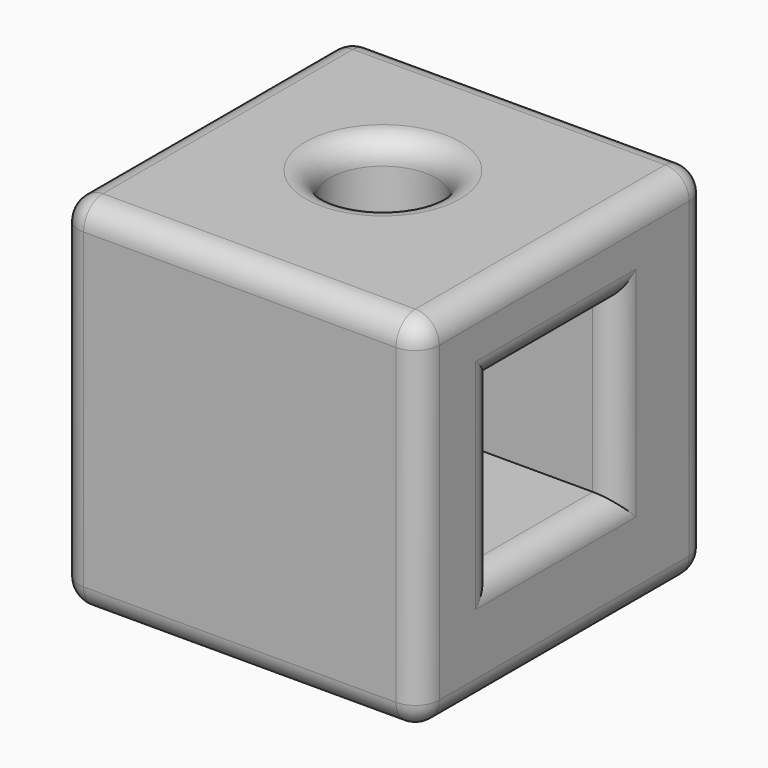
from build123d import *

# Parameters (mm, degrees)
F0_W     = 76.2
F0_H     = 76.2
F1_DEPTH = 76.2
F2_R     = 11.2668024736
F3_DEPTH = 76.201
F4_W     = 32.2091430426
F4_H     = 35.9837710857
F5_DEPTH = 76.201
F6_R     = 5.08
F7_R     = 5.08


with BuildPart() as f1:
    # F0 (on Top) → F1 (new body)
    with BuildSketch(Plane.XY):
        with Locations((38.1, 38.1)):
            Rectangle(F0_W, F0_H)
    extrude(amount=F1_DEPTH)

    # F2 (on face) → F3 (cut, through all)
    with BuildSketch(Plane.XY.offset(76.2)):
        with Locations((35.9600186348, 40.4836237431)):
            Circle(F2_R)
    extrude(amount=-F3_DEPTH, mode=Mode.SUBTRACT)

    # F4 (on face) → F5 (cut, through all)
    with BuildSketch(Plane.YZ.offset(76.2)):
        with Locations((35.8842462301, 41.1003679037)):
            Rectangle(F4_W, F4_H)
    extrude(amount=-F5_DEPTH, mode=Mode.SUBTRACT)

    # F6
    f6_edges = [f1.edges().sort_by_distance(p)[0] for p in [
        (38.1, 0, 76.2),
        (76.2, 38.1, 76.2),
        (38.1, 76.2, 76.2),
        (0, 38.1, 76.2),
        (0, 0, 38.1),
        (76.2, 0, 38.1),
        (38.1, 0, 0),
        (76.2, 38.1, 0),
        (76.2, 35.884246, 23.108482),
        (76.2, 51.988818, 41.100368),
        (76.2, 76.2, 38.1),
        (76.2, 19.779675, 41.100368),
        (76.2, 35.884246, 59.092253),
        (0, 76.2, 38.1),
        (38.1, 76.2, 0),
        (0, 38.1, 0),
        (24.693216, 40.483624, 0),
    ]]
    fillet(f6_edges, radius=F6_R)

    # F7
    f7_edges = [f1.edges().sort_by_distance(p)[0] for p in [
        (38.1, 5.08, 76.2),
        (5.08, 38.1, 76.2),
        (71.12, 38.1, 76.2),
        (38.1, 71.12, 76.2),
        (24.693216, 40.483624, 76.2),
        (0, 38.1, 71.12),
        (0, 71.12, 38.1),
        (0, 5.08, 38.1),
        (0, 38.1, 5.08),
        (0, 51.988818, 41.100368),
        (0, 35.884246, 59.092253),
        (0, 19.779675, 41.100368),
        (0, 35.884246, 23.108482),
    ]]
    fillet(f7_edges, radius=F7_R)


solid = f1.part
